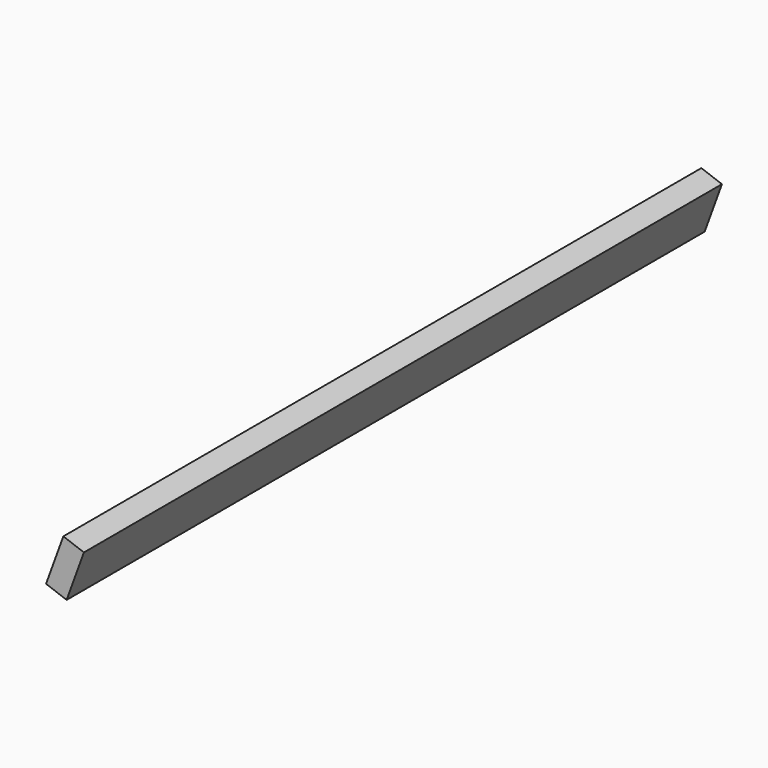
from build123d import *

# Parameters (mm, degrees)
PAD_DEPTH = 474


with BuildPart() as part:
    # Sketch → Pad (new body)
    with BuildSketch(Plane.XZ):
        Polygon((12.216004, -4.446262), (22.476608, 23.744517), (10.260604, 28.190779), (0, 0), align=None)
    extrude(amount=-PAD_DEPTH)


solid = part.part
